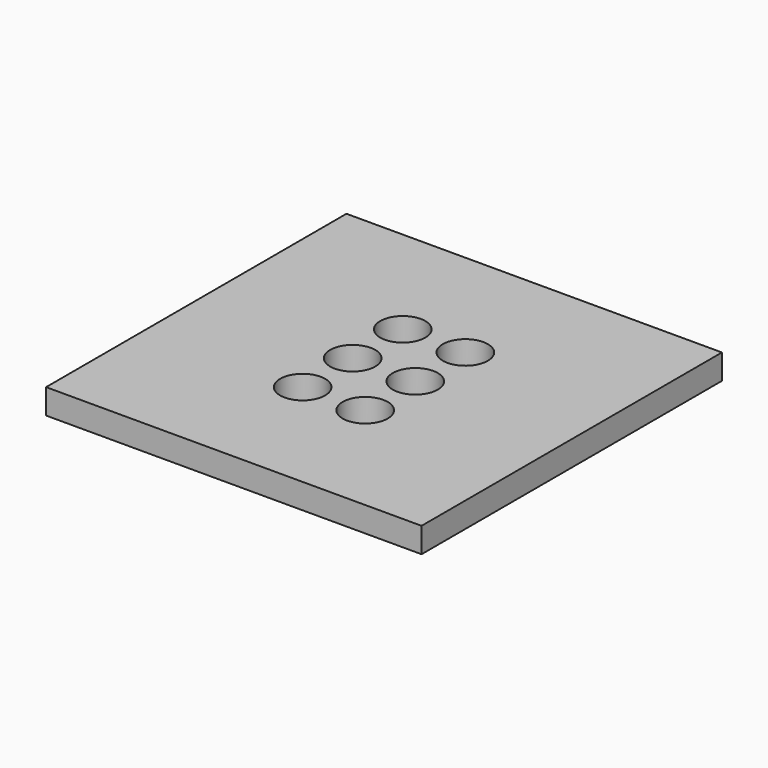
from build123d import *

# Parameters (mm, degrees)
F0_W     = 15
F0_H     = 15
F0_R     = 0.9
F1_DEPTH = 1


with BuildPart() as f1:
    # F0 (on Top) → F1 (new body)
    with BuildSketch(Plane.XY):
        Rectangle(F0_W, F0_H)
        with Locations((-1.25, -2.5)):
            Circle(F0_R, mode=Mode.SUBTRACT)
        with Locations((1.25, -2.5)):
            Circle(F0_R, mode=Mode.SUBTRACT)
        with Locations((-1.25, 0)):
            Circle(F0_R, mode=Mode.SUBTRACT)
        with Locations((-1.25, 2.5)):
            Circle(F0_R, mode=Mode.SUBTRACT)
        with Locations((1.25, 0)):
            Circle(F0_R, mode=Mode.SUBTRACT)
        with Locations((1.25, 2.5)):
            Circle(F0_R, mode=Mode.SUBTRACT)
    extrude(amount=F1_DEPTH)


solid = f1.part
